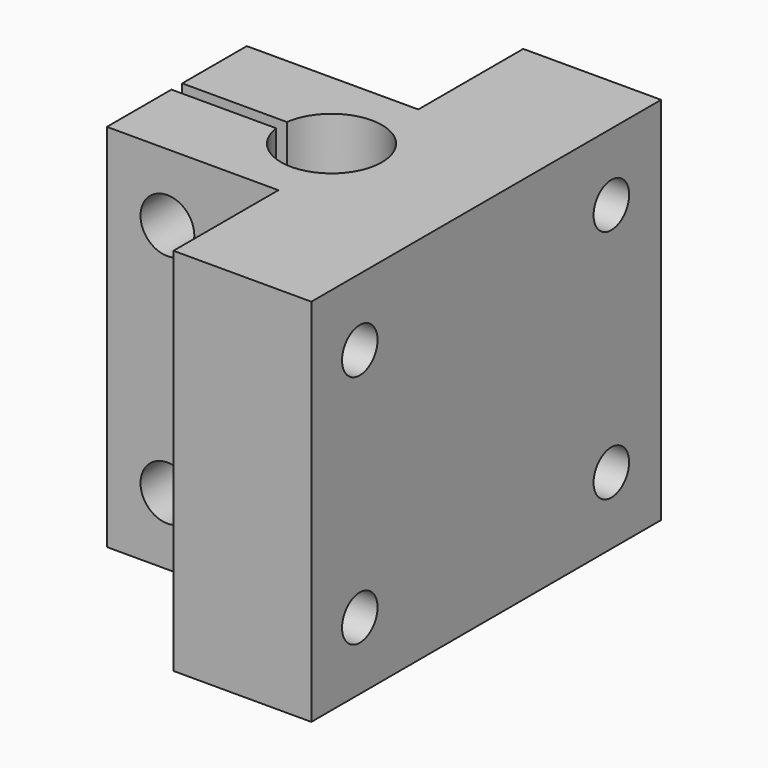
from build123d import *

# Parameters (mm, degrees)
F1_DEPTH  = 55
F3_R      = 4
F4_DEPTH  = 50
F5_R      = 4
F6_DEPTH  = 100
F8_R      = 3.3
F9_DEPTH  = 25
F10_R     = 3.3
F11_DEPTH = 25


with BuildPart() as f1:
    # F0 (on Top) → F1 (new body)
    with BuildSketch(Plane.XY):
        with BuildLine():
            Line((20.5, 0), (0, 0))
            Line((0, 0), (0, -19.5))
            Line((0, -19.5), (-25.5, -19.5))
            Line((-25.5, -19.5), (-25.5, -31.5))
            Line((-25.5, -31.5), (-9.9330343737, -31.5))
            ThreePointArc((-9.9330343737, -31.5), (5, -32.5), (-9.9330343737, -33.5))
            Line((-9.9330343737, -33.5), (-25.5, -33.5))
            Line((-25.5, -33.5), (-25.5, -45.5))
            Line((-25.5, -45.5), (0, -45.5))
            Line((0, -45.5), (0, -65))
            Line((0, -65), (20.5, -65))
            Line((20.5, -65), (20.5, 0))
        make_face()
    extrude(amount=F1_DEPTH)

    # F3 (on offset) → F4 (cut, symmetric)
    with BuildSketch(Plane.XZ.offset(45.5)):
        with Locations((-16.5, 10)):
            Circle(F3_R)
    extrude(amount=F4_DEPTH, both=True, mode=Mode.SUBTRACT)

    # F5 (on offset) → F6 (cut)
    with BuildSketch(Plane.XZ.offset(45.5)):
        with Locations((-16.5, 45)):
            Circle(F5_R)
    extrude(amount=-F6_DEPTH, mode=Mode.SUBTRACT)

    # F8 (on offset) → F9 (cut)
    with BuildSketch(Plane(origin=(0, 0, 0), x_dir=(0, -1, 0), z_dir=(-1, 0, 0))):
        with Locations((9.25, 45)):
            Circle(F8_R)
        with Locations((9.25, 10)):
            Circle(F8_R)
    extrude(amount=-F9_DEPTH, mode=Mode.SUBTRACT)

    # F10 (on offset) → F11 (cut)
    with BuildSketch(Plane(origin=(0, 0, 0), x_dir=(0, -1, 0), z_dir=(-1, 0, 0))):
        with Locations((56, 10)):
            Circle(F10_R)
        with Locations((56, 45)):
            Circle(F10_R)
    extrude(amount=-F11_DEPTH, mode=Mode.SUBTRACT)


solid = f1.part
